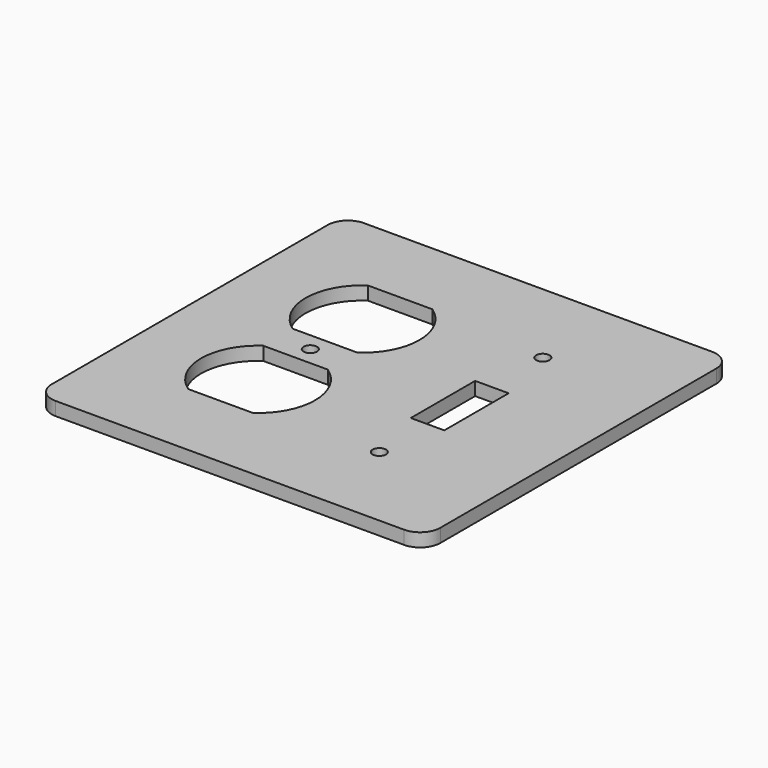
from build123d import *

# Parameters (mm, degrees)
F0_W     = 116
F0_H     = 115
F0_R     = 2
F0_W_2   = 10
F0_H_2   = 24
F1_DEPTH = 4
F2_R     = 6
F4_R     = 2
F4_R_2   = 17
F5_DEPTH = 25
F6_W     = 27.550638
F6_H     = 3.205147
F6_W_2   = 29.028984
F6_H_2   = 3.037915
F6_W_3   = 33.224199
F6_H_3   = 3
F7_DEPTH = 4


with BuildPart() as f1:
    # F0 (on Top) → F1 (new body)
    with BuildSketch(Plane.XY):
        with Locations((58, 57.5)):
            Rectangle(F0_W, F0_H)
        with Locations((81, 27)):
            Circle(F0_R, mode=Mode.SUBTRACT)
        with Locations((81, 57)):
            Rectangle(F0_W_2, F0_H_2, mode=Mode.SUBTRACT)
        with Locations((81, 88)):
            Circle(F0_R, mode=Mode.SUBTRACT)
    extrude(amount=F1_DEPTH)

    # F2
    f2_edges = [f1.edges().sort_by_distance(p)[0] for p in [
        (0, 115, 2),
        (116, 115, 2),
        (116, 0, 2),
        (0, 0, 2),
    ]]
    fillet(f2_edges, radius=F2_R)

    # F4 (on Top) → F5 (cut)
    with BuildSketch(Plane.XY):
        with Locations((36, 57.5)):
            Circle(F4_R)
        with Locations((36, 77)):
            Circle(F4_R_2)
        with Locations((36, 38)):
            Circle(F4_R_2)
    extrude(amount=F5_DEPTH, mode=Mode.SUBTRACT)

    # F6 (on face) → F7 (join)
    with BuildSketch(Plane.XY.offset(4)):
        Polygon((32.74464, 94.836249), (25.32669, 91), (46.063566, 91), (43.255925, 94.420469), align=None)
        with Locations((37.412647, 61.397426)):
            Rectangle(F6_W, F6_H)
        with Locations((37.197317, 53.518957)):
            Rectangle(F6_W_2, F6_H_2)
        with Locations((36.739217, 22.5)):
            Rectangle(F6_W_3, F6_H_3)
    extrude(amount=-F7_DEPTH)


solid = f1.part
